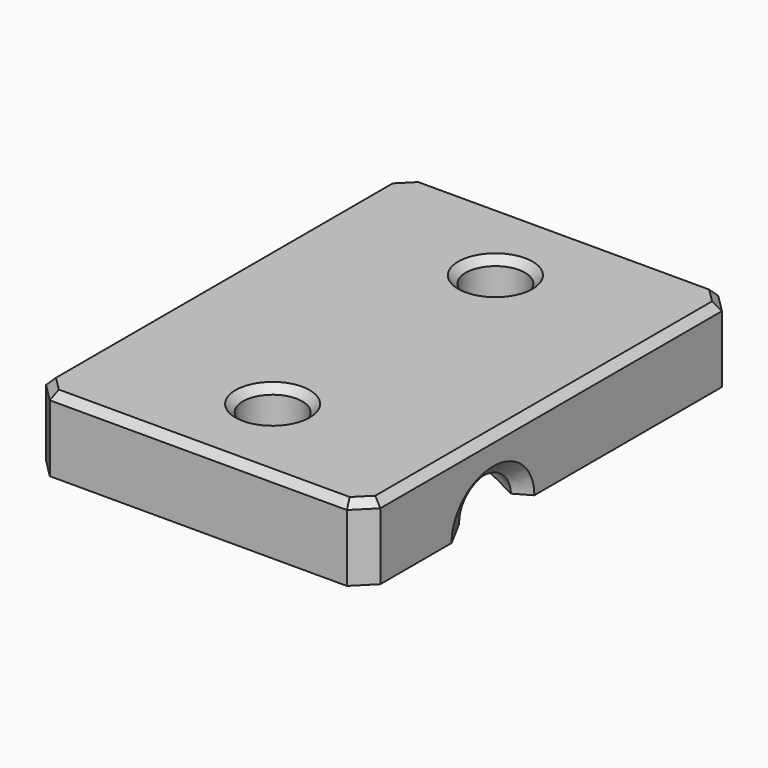
from build123d import *

# Parameters (mm, degrees)
SKETCH027_W     = 18
SKETCH027_H     = 25
SKETCH027_R     = 1.6
PAD008_DEPTH    = 4
SKETCH028_R     = 1.5
CHAMFER011_SIZE = 1
CHAMFER033_SIZE = 1
CHAMFER039_SIZE = 0.4


with BuildPart() as part:
    # Sketch027 (on Binder) → Pad008 (new body)
    with BuildSketch(Plane.XY):
        with Locations((-28.5, 0)):
            Rectangle(SKETCH027_W, SKETCH027_H)
        with Locations((-28.5, 7.5)):
            Circle(SKETCH027_R, mode=Mode.SUBTRACT)
        with Locations((-28.5, -7.5)):
            Circle(SKETCH027_R, mode=Mode.SUBTRACT)
    extrude(amount=PAD008_DEPTH)

    # Pipe002: sweep along a path in Sketch029
    with BuildLine(Plane(origin=(0, 0, 0), x_dir=(1, 0, 0), z_dir=(0, 0, -1))) as pipe002_path:
        Line((-37.5, 0), (-32.5, 0))
        ThreePointArc((-32.5, 0), (-25.713288, 0.99695), (-19.5, 3.903567))
        Line((-19.5, 3.903567), (0, 16.774801))
    # Sketch028 (on Face4 of Pad008) → Pipe002 (sweep, cut)
    with BuildSketch(Plane(origin=(-37.5, 0, 0), x_dir=(0, -1, 0), z_dir=(-1, 0, 0))):
        Circle(SKETCH028_R)
    sweep(path=pipe002_path.line, mode=Mode.SUBTRACT)

    # Chamfer011
    chamfer011_edges = [part.edges().sort_by_distance(p)[0] for p in [
        (-37.5, 0, 1.5),
        (-19.5, -2.700188, 1.106038),
    ]]
    chamfer(chamfer011_edges, length=CHAMFER011_SIZE)

    # Chamfer033
    chamfer033_edges = [part.edges().sort_by_distance(p)[0] for p in [
        (-37.5, -12.5, 2),
        (-19.5, -12.5, 2),
        (-19.5, 12.5, 2),
        (-37.5, 12.5, 2),
    ]]
    chamfer(chamfer033_edges, length=CHAMFER033_SIZE)

    # Chamfer039
    chamfer039_edges = [part.edges().sort_by_distance(p)[0] for p in [
        (-28.5, 12.5, 4),
        (-37, 12, 4),
        (-20, 12, 4),
        (-37.5, 0, 4),
        (-19.5, 0, 4),
        (-37, -12, 4),
        (-20, -12, 4),
        (-28.5, -12.5, 4),
        (-30.1, 7.5, 4),
        (-30.1, -7.5, 4),
    ]]
    chamfer(chamfer039_edges, length=CHAMFER039_SIZE)


with BuildPart() as part_1:
    # Body005 placement: moved
    add(part.part.moved(Location((0, 0, 3.5))))


solid = part_1.part
